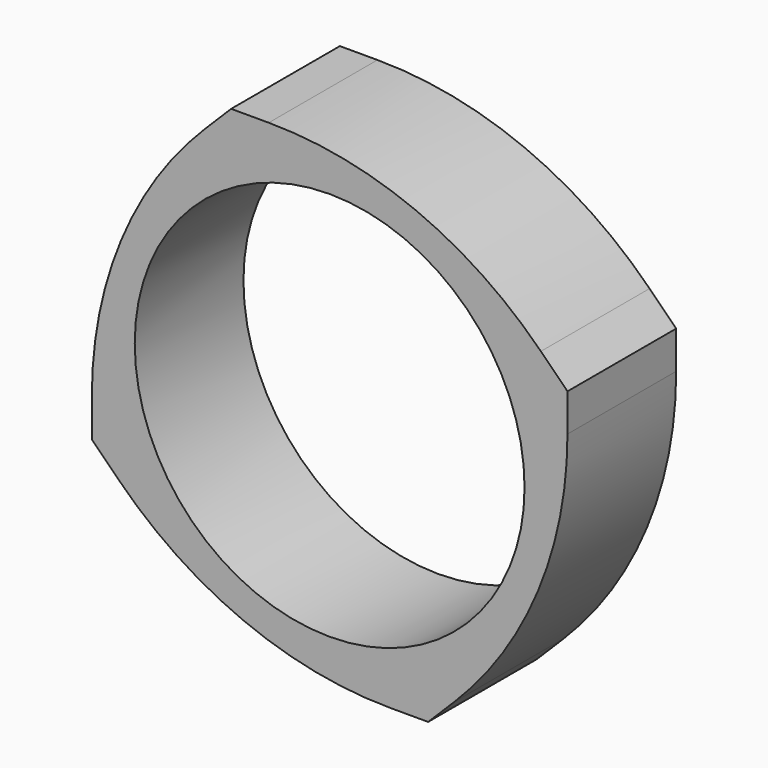
from build123d import *

# Parameters (mm, degrees)
F0_R     = 8.605
F1_DEPTH = 6
F2_R     = 16.9919


with BuildPart() as f1:
    # F0 (on Front) → F1 (new body)
    with BuildSketch(Plane.XZ):
        Polygon((-4.349242, -10.5), (4.349242, -10.5), (10.5, -4.349242), (10.5, 4.349242), (4.349242, 10.5), (-4.349242, 10.5), (-10.5, 4.349242), (-10.5, -4.349242), align=None)
        Circle(F0_R, mode=Mode.SUBTRACT)
    extrude(amount=F1_DEPTH)

    # F2
    f2_edges = [f1.edges().sort_by_distance(p)[0] for p in [
        (-10.5, -3, 4.349242),
        (4.349242, -3, 10.5),
        (10.5, -3, -4.349242),
        (-4.349242, -3, -10.5),
    ]]
    fillet(f2_edges, radius=F2_R)


solid = f1.part
